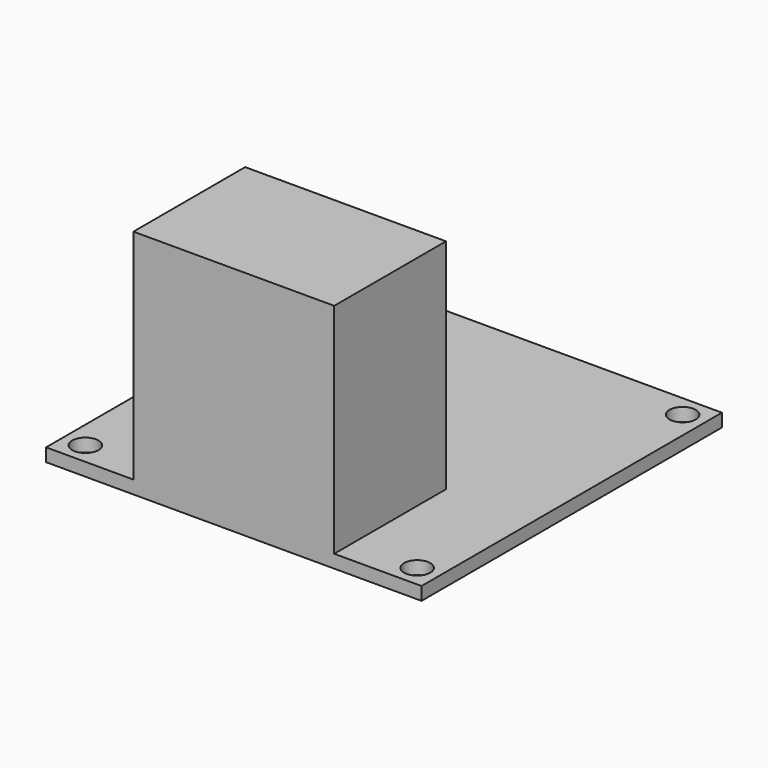
from build123d import *

# Parameters (mm, degrees)
F0_W     = 43
F0_H     = 43
F1_DEPTH = 1.5
F2_W     = 23
F2_H     = 16
F3_DEPTH = 25
F4_R     = 1.5
F5_DEPTH = 1.501


with BuildPart() as f1:
    # F0 (on Top) → F1 (new body)
    with BuildSketch(Plane.XY):
        Rectangle(F0_W, F0_H)
    extrude(amount=F1_DEPTH)

    # F2 (on face) → F3 (join)
    with BuildSketch(Plane.XY.offset(1.5)):
        with Locations((0, -13.5)):
            Rectangle(F2_W, F2_H)
    extrude(amount=F3_DEPTH)

    # F4 (on face) → F5 (cut, through all)
    with BuildSketch(Plane.XY.offset(1.5)):
        with Locations((-19, -19)):
            Circle(F4_R)
        with Locations((19, -19)):
            Circle(F4_R)
        with Locations((-19, 19)):
            Circle(F4_R)
        with Locations((19, 19)):
            Circle(F4_R)
    extrude(amount=-F5_DEPTH, mode=Mode.SUBTRACT)


solid = f1.part
